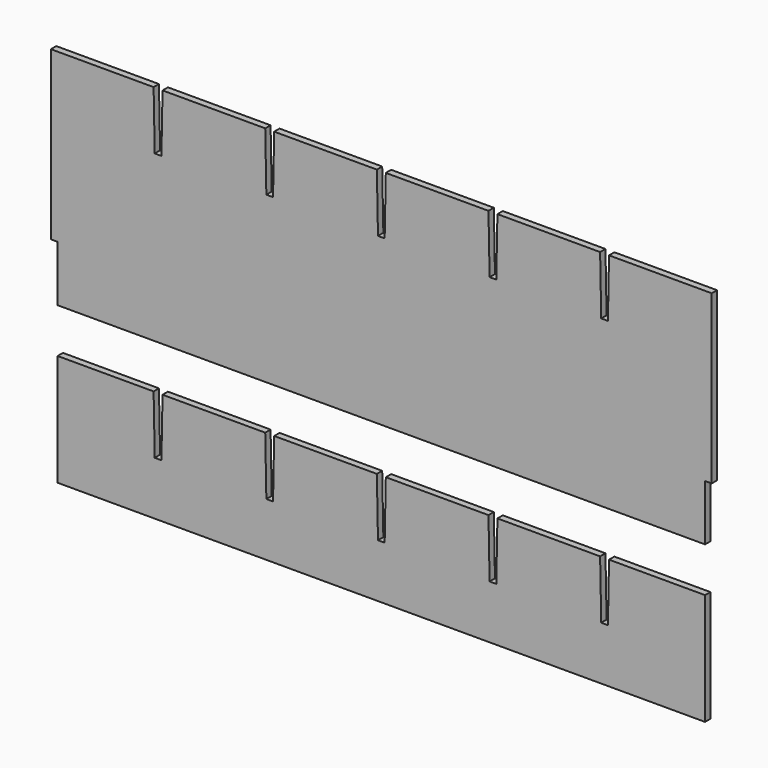
from build123d import *

# Parameters (mm, degrees)
F0_W     = 3
F0_H     = 50
F0_H_2   = 25
F1_DEPTH = 3
F3_DEPTH = 3


with BuildPart() as f1:
    # F0 (on Front) → F1 (new body)
    with BuildSketch(Plane.XZ):
        Polygon((10, 35), (10, 10), (300, 10), (300, 35), (300, 60), (300, 110), (257, 110), (256.5, 84), (253.5, 84), (253, 110), (207, 110), (206.5, 84), (203.5, 84), (203, 110), (157, 110), (156.5, 84), (153.5, 84), (153, 110), (107, 110), (106.5, 84), (103.5, 84), (103, 110), (57, 110), (56.5, 84), (53.5, 84), (53, 110), (10, 110), (10, 60), align=None)
        with Locations((8.5, 85)):
            Rectangle(F0_W, F0_H)
        with Locations((301.5, 85)):
            Rectangle(F0_W, F0_H)
        with Locations((8.5, 47.5)):
            Rectangle(F0_W, F0_H_2)
        with Locations((301.5, 47.5)):
            Rectangle(F0_W, F0_H_2)
    extrude(amount=F1_DEPTH)


with BuildPart() as f3:
    # F2 (on Front) → F3 (new body)
    with BuildSketch(Plane.XZ):
        Polygon((10, -10), (10, -60), (300, -60), (300, -10), (257, -10), (256.5, -36), (253.5, -36), (253, -10), (207, -10), (206.5, -36), (203.5, -36), (203, -10), (157, -10), (156.5, -36), (153.5, -36), (153, -10), (107, -10), (106.5, -36), (103.5, -36), (103, -10), (57, -10), (56.5, -36), (53.5, -36), (53, -10), align=None)
    extrude(amount=F3_DEPTH)


solid = Compound([f1.part, f3.part])
